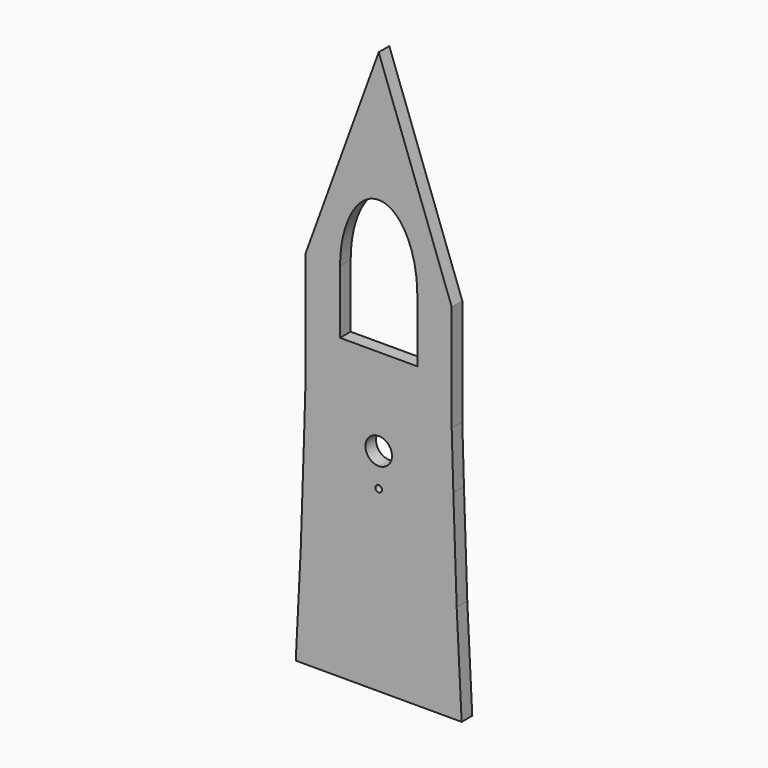
from build123d import *

# Parameters (mm, degrees)
F0_R     = 4
F0_R_2   = 16
F1_DEPTH = 16


with BuildPart() as f1:
    # F0 (on Front) → F1 (new body)
    with BuildSketch(Plane.XZ):
        Polygon((-207.0680320263, -623.6539875509), (-7.0680320263, -623.6539875509), (-10.0680320263, -563.6539875509), (-13.0680320263, -503.6539875509), (-17.0680320263, -383.6539875509), (-19.0680320263, -315.6539875509), (-19.0680320263, -187.1539875509), (-107.0680320263, 54.6240253611), (-195.0680320263, -187.1539875509), (-195.0680320263, -315.6539875509), (-197.0680320263, -383.6539875509), (-201.0680320263, -503.6539875509), (-204.0680320263, -563.6539875509), align=None)
        with Locations((-107.0680320263, -408.6539875509)):
            Circle(F0_R, mode=Mode.SUBTRACT)
        with Locations((-107.0680320263, -368.6539875509)):
            Circle(F0_R_2, mode=Mode.SUBTRACT)
        with BuildLine():
            Line((-60.5080320263, -263.6539875509), (-153.6280320263, -263.6539875509))
            Line((-153.6280320263, -263.6539875509), (-153.6280320263, -187.1539875509))
            add(Edge.make_bspline(
                [(-60.5080320263, -187.1539875509), (-60.5080320263, -102.1539875509), (-107.0680320263, -102.1539875509), (-153.6280320263, -102.1539875509), (-153.6280320263, -187.1539875509)],
                knots=[1.5707963268, 1.5707963268, 1.5707963268, 3.1415926536, 3.1415926536, 4.7123889804, 4.7123889804, 4.7123889804], degree=2, weights=[1, 0.7071067812, 1, 0.7071067812, 1]))
            Line((-60.5080320263, -187.1539875509), (-60.5080320263, -263.6539875509))
        make_face(mode=Mode.SUBTRACT)
    extrude(amount=F1_DEPTH)


solid = f1.part
